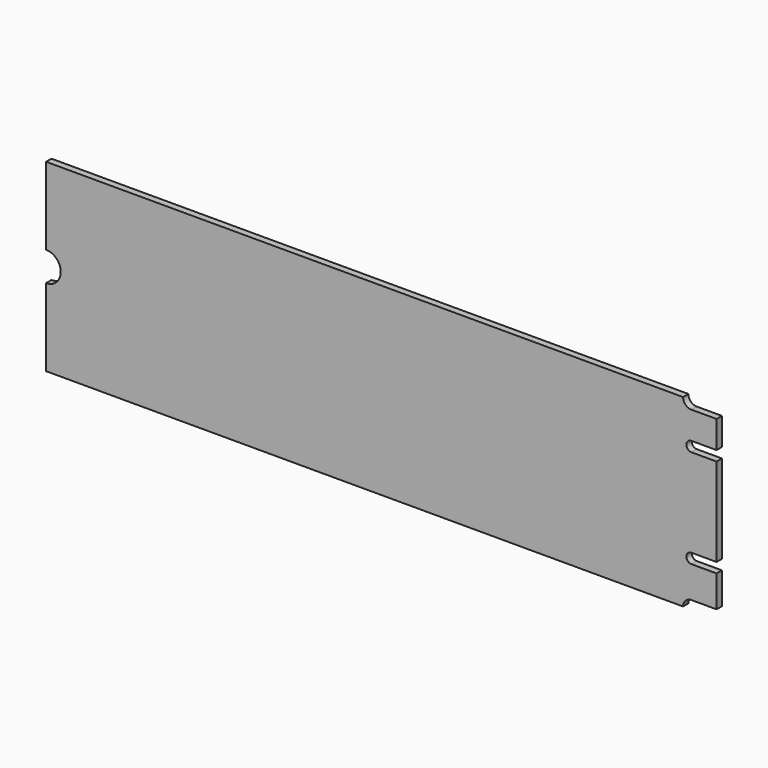
from build123d import *

# Parameters (mm, degrees)
F1_DEPTH = 0.8


with BuildPart() as f1:
    # F0 (on Front) → F1 (new body)
    with BuildSketch(Plane.XZ):
        with BuildLine():
            Line((37, -10), (40, -10))
            Line((40, -10), (40, -6.225))
            Line((40, -6.225), (37, -6.225))
            ThreePointArc((37, -6.225), (36.4, -5.625), (37, -5.025))
            Line((37, -5.025), (40, -5.025))
            Line((40, -5.025), (40, 5.525))
            Line((40, 5.525), (37, 5.525))
            ThreePointArc((37, 5.525), (36.4, 6.125), (37, 6.725))
            Line((37, 6.725), (40, 6.725))
            Line((40, 6.725), (40, 10))
            Line((40, 10), (37, 10))
            ThreePointArc((37, 10), (36.292893, 10.292893), (36, 11))
            Line((36, 11), (-40, 11))
            Line((-40, 11), (-40, 3))
            ThreePointArc((-40, 3), (-37, 0), (-40, -3))
            Line((-40, -3), (-40, -11))
            Line((-40, -11), (36, -11))
            ThreePointArc((36, -11), (36.292893, -10.292893), (37, -10))
        make_face()
        with BuildLine():
            Line((-40, -1.75), (-40, -3))
            ThreePointArc((-40, -3), (-37, 0), (-40, 3))
            Line((-40, 3), (-40, 1.75))
            ThreePointArc((-40, 1.75), (-38.25, 0), (-40, -1.75))
        make_face()
    extrude(amount=F1_DEPTH)


solid = f1.part
